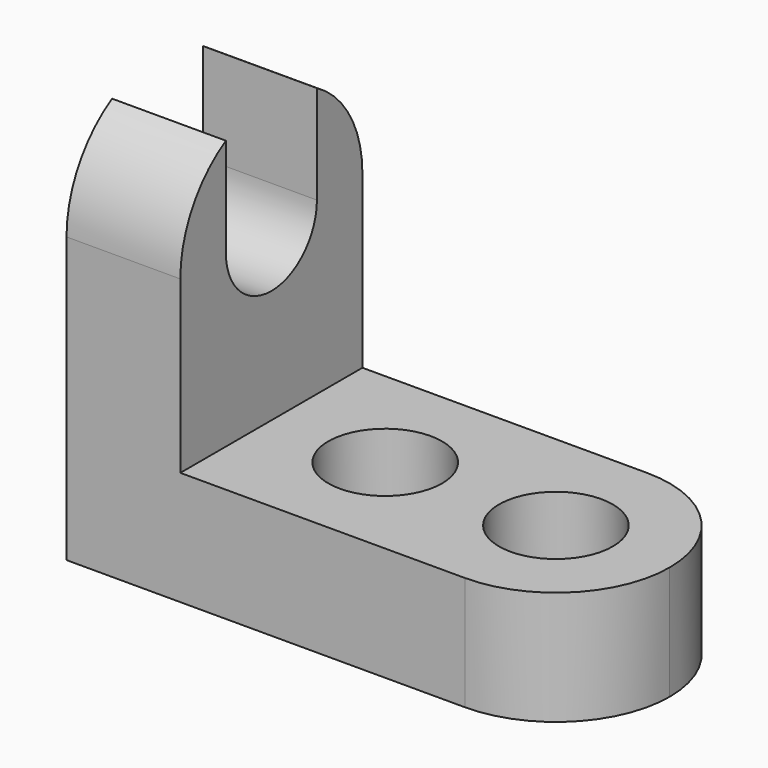
from build123d import *

# Parameters (mm, degrees)
F0_W     = 57.15
F0_H     = 44.45
F1_DEPTH = 25.4
F2_W     = 44.45
F2_H     = 31.75
F3_DEPTH = 25.4
F4_R     = 6.35
F5_DEPTH = 25.4
F7_DEPTH = 25.4
F9_DEPTH = 25.4


with BuildPart() as f1:
    # F0 (on Front) → F1 (new body)
    with BuildSketch(Plane.XZ):
        with Locations((28.575, 22.225)):
            Rectangle(F0_W, F0_H)
    extrude(amount=F1_DEPTH)

    # F2 (on face) → F3 (cut)
    with BuildSketch(Plane.XZ.offset(25.4)):
        with Locations((34.925, 28.575)):
            Rectangle(F2_W, F2_H)
    extrude(amount=-F3_DEPTH, mode=Mode.SUBTRACT)

    # F4 (on face) → F5 (cut)
    with BuildSketch(Plane.XY.offset(12.7)):
        with Locations((25.4, -12.7000007846)):
            Circle(F4_R)
        with Locations((44.45, -12.7000007846)):
            Circle(F4_R)
    extrude(amount=-F5_DEPTH, mode=Mode.SUBTRACT)

    # F6 (on face) → F7 (cut)
    with BuildSketch(Plane.XY.offset(12.7)):
        with BuildLine():
            ThreePointArc((44.45, 0), (53.4302561211, -3.7197438789), (57.15, -12.7))
            Line((57.15, -12.7), (57.15, 0))
            Line((57.15, 0), (44.45, 0))
        make_face()
        with BuildLine():
            ThreePointArc((57.15, -12.7), (53.4302561211, -21.6802561211), (44.45, -25.4))
            Line((44.45, -25.4), (57.15, -25.4))
            Line((57.15, -25.4), (57.15, -12.7))
        make_face()
    extrude(amount=-F7_DEPTH, mode=Mode.SUBTRACT)

    # F8 (on face) → F9 (cut)
    with BuildSketch(Plane.YZ.offset(12.7)):
        with BuildLine():
            ThreePointArc((-25.4, 31.75), (-23.6985226281, 38.1), (-19.05, 42.7485226281))
            Line((-19.05, 42.7485226281), (-19.05, 44.45))
            Line((-19.05, 44.45), (-25.4, 44.45))
            Line((-25.4, 44.45), (-25.4, 31.75))
        make_face()
        with BuildLine():
            Line((-6.35, 44.45), (-6.35, 42.7485226281))
            ThreePointArc((-6.35, 42.7485226281), (-1.7014773719, 38.1), (0, 31.75))
            Line((0, 31.75), (0, 44.45))
            Line((0, 44.45), (-6.35, 44.45))
        make_face()
        with BuildLine():
            ThreePointArc((-19.05, 31.75), (-12.7, 25.4), (-6.35, 31.75))
            ThreePointArc((-6.35, 31.75), (-12.7, 38.1), (-19.05, 31.75))
        make_face()
        with BuildLine():
            ThreePointArc((-19.05, 31.75), (-12.7, 38.1), (-6.35, 31.75))
            Line((-6.35, 31.75), (-6.35, 42.7485226281))
            ThreePointArc((-6.35, 42.7485226281), (-9.4129981272, 44.0172579939), (-12.7, 44.45))
            ThreePointArc((-12.7, 44.45), (-15.9870018728, 44.0172579939), (-19.05, 42.7485226281))
            Line((-19.05, 42.7485226281), (-19.05, 31.75))
        make_face()
        with BuildLine():
            Line((-19.05, 44.45), (-19.05, 42.7485226281))
            ThreePointArc((-19.05, 42.7485226281), (-15.9870018728, 44.0172579939), (-12.7, 44.45))
            Line((-12.7, 44.45), (-19.05, 44.45))
        make_face()
        with BuildLine():
            ThreePointArc((-12.7, 44.45), (-9.4129981272, 44.0172579939), (-6.35, 42.7485226281))
            Line((-6.35, 42.7485226281), (-6.35, 44.45))
            Line((-6.35, 44.45), (-12.7, 44.45))
        make_face()
    extrude(amount=-F9_DEPTH, mode=Mode.SUBTRACT)


solid = f1.part
